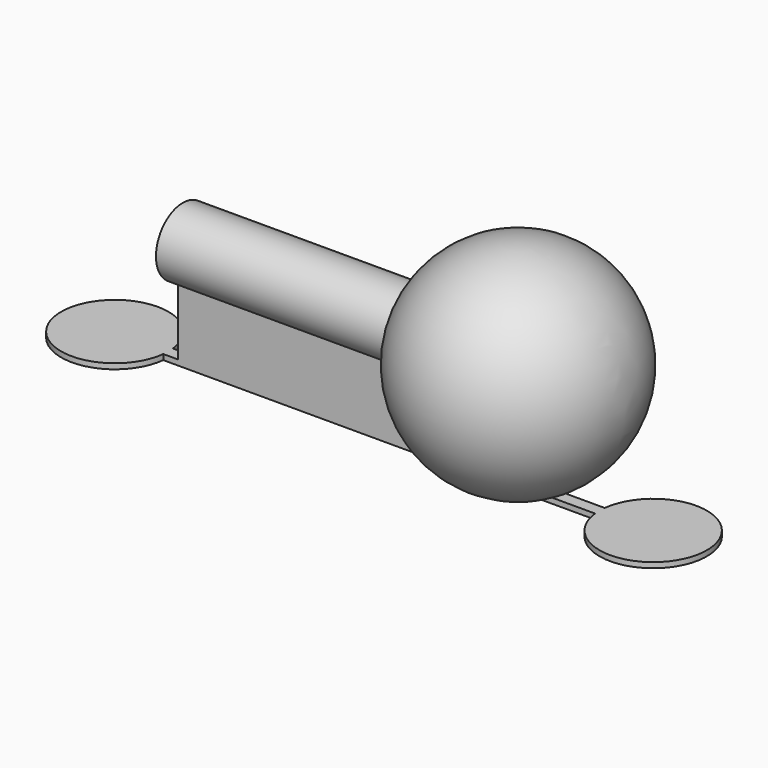
from build123d import *

# Parameters (mm, degrees)
EXTRUDE_DEPTH  = 0.4
CYLINDER_R     = 2.5
CYLINDER_DEPTH = 25
BOX_W          = 17
BOX_H          = 0.9
BOX_DEPTH      = 8


with BuildPart() as extrude_body:
    # Sketch011 (on Face6 of Fusion) → Extrude (new body)
    with BuildSketch(Plane(origin=(0, 0, 2), x_dir=(1, 0, 0), z_dir=(0, 0, -1))):
        with BuildLine():
            Line((-44.094311, -6.55), (-11.902384, -6.55))
            ThreePointArc((-11.902384, -7.45), (-3.927777, -7), (-11.902384, -6.55))
            Line((-11.902384, -7.45), (-44.094311, -7.45))
            ThreePointArc((-44.094311, -6.55), (-52.068918, -7), (-44.094311, -7.45))
        make_face()
    extrude(amount=-EXTRUDE_DEPTH)


with BuildPart() as cylinder:
    # Cylinder → Cylinder (new body)
    with BuildSketch(Plane(origin=(-18, 7, 10), x_dir=(0, 0, 1), z_dir=(-1, 0, 0))):
        Circle(CYLINDER_R)
    extrude(amount=CYLINDER_DEPTH)


with BuildPart() as cube:
    # Box → Box (new body)
    with BuildSketch(Plane(origin=(-43, 6.55, 2), x_dir=(1, 0, 0), z_dir=(0, 0, 1))):
        with Locations((8.5, 0.45)):
            Rectangle(BOX_W, BOX_H)
    extrude(amount=BOX_DEPTH)


with BuildPart() as ball:
    # Sphere001 → Sphere001 (revolve)
    with BuildSketch(Plane(origin=(-18, 7, 10), x_dir=(1, 0, 0), z_dir=(0, -1, 0))):
        with BuildLine():
            ThreePointArc((0, -8), (8, 0), (0, 8))
            Line((0, 8), (0, -8))
        make_face()
    revolve(axis=Axis((-18, 7, 10), (0, 0, 1)))

    # Fusion: union Cylinder, Cube
    add(cylinder.part)
    add(cube.part)

    # Fusion001: union Extrude body
    add(extrude_body.part)


solid = ball.part
